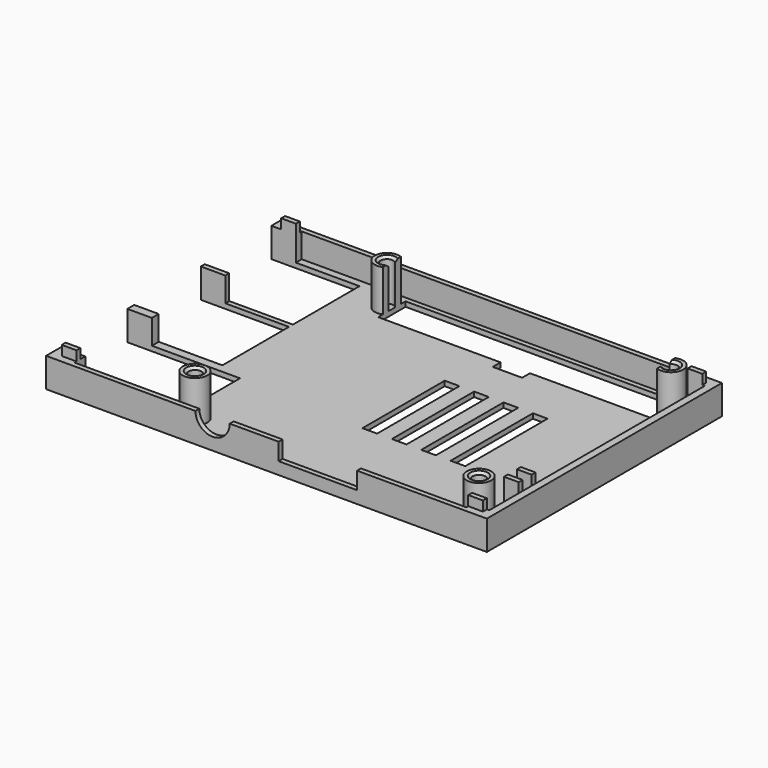
from build123d import *

# Parameters (mm, degrees)
SKETCH_W        = 3
SKETCH_H        = 21
PAD_DEPTH       = 1
SKETCH001_W     = 5
SKETCH001_H     = 1.75
SKETCH001_H_2   = 1
PAD001_DEPTH    = 5
SKETCH002_W     = 3
SKETCH002_H     = 1
PAD002_DEPTH    = 2
SKETCH003_R     = 2.5
SKETCH003_R_2   = 1.3
PAD003_DEPTH    = 8.5
SKETCH004_W     = 16
SKETCH004_H     = 3.5
POCKET_DEPTH    = 1
CHAMFER_SIZE    = 0.5
SKETCH005_W     = 3
SKETCH005_H     = 1
PAD004_DEPTH    = 7
SKETCH006_W     = 56
SKETCH006_H     = 7
POCKET001_DEPTH = 9.501


with BuildPart() as part:
    # Sketch → Pad (new body)
    with BuildSketch(Plane.XY):
        Polygon((-45, 30), (45, 30), (45, -30), (-45, -30), (-45, -26.25), (-22, -26.25), (-22, -9.25), (-45, -9.25), (-45, -7.5), (-27, -7.5), (-27, 9.5), (-45, 9.5), (-45, 10.5), (-27, 10.5), (-27, 27.5), (-45, 27.5), align=None)
        Polygon((36.5, 21), (36.5, 28), (-16.5, 28), (-16.5, 21), (7, 21), (7, 19), (13, 19), (13, 21), align=None, mode=Mode.SUBTRACT)
        with Locations((5.5, 0)):
            Rectangle(SKETCH_W, SKETCH_H, mode=Mode.SUBTRACT)
        with Locations((11.5, 0)):
            Rectangle(SKETCH_W, SKETCH_H, mode=Mode.SUBTRACT)
        with Locations((17.5, 0)):
            Rectangle(SKETCH_W, SKETCH_H, mode=Mode.SUBTRACT)
        with Locations((23.5, 0)):
            Rectangle(SKETCH_W, SKETCH_H, mode=Mode.SUBTRACT)
    extrude(amount=PAD_DEPTH)

    # Sketch001 (on Face42 of Pad) → Pad001 (join)
    with BuildSketch(Plane.XY.offset(1)):
        with Locations((-42.5, -8.375)):
            Rectangle(SKETCH001_W, SKETCH001_H)
        with Locations((-42.5, 10)):
            Rectangle(SKETCH001_W, SKETCH001_H_2)
        Polygon((-45, 30), (45, 30), (45, -30), (-45, -30), (-45, -26.25), (-40, -26.25), (-40, -29), (40, -29), (40, -27.5), (43.5, -27.5), (43.5, 27.5), (40, 27.5), (40, 29), (-40, 29), (-40, 27.5), (-45, 27.5), align=None)
    extrude(amount=PAD001_DEPTH)

    # Sketch002 (on Face56 of Pad001) → Pad002 (join)
    with BuildSketch(Plane.XY.offset(6)):
        with Locations((41.5, 28)):
            Rectangle(SKETCH002_W, SKETCH002_H)
        with Locations((-41.5, 28)):
            Rectangle(SKETCH002_W, SKETCH002_H)
        with Locations((-41.5, -28)):
            Rectangle(SKETCH002_W, SKETCH002_H)
        with Locations((41.5, -28)):
            Rectangle(SKETCH002_W, SKETCH002_H)
    extrude(amount=PAD002_DEPTH)

    # Sketch003 (on Face47 of Pad002) → Pad003 (join)
    with BuildSketch(Plane.XY.offset(1)):
        with Locations((-19, 24.5)):
            Circle(SKETCH003_R)
        with Locations((-19, 24.5)):
            Circle(SKETCH003_R_2, mode=Mode.SUBTRACT)
        with Locations((39, 24.5)):
            Circle(SKETCH003_R)
        with Locations((39, 24.5)):
            Circle(SKETCH003_R_2, mode=Mode.SUBTRACT)
        with Locations((-19, -24.5)):
            Circle(SKETCH003_R)
        with Locations((-19, -24.5)):
            Circle(SKETCH003_R_2, mode=Mode.SUBTRACT)
        with Locations((39, -24.5)):
            Circle(SKETCH003_R)
        with Locations((39, -24.5)):
            Circle(SKETCH003_R_2, mode=Mode.SUBTRACT)
    extrude(amount=PAD003_DEPTH)

    # Sketch004 (on Face45 of Pad003) → Pocket (cut)
    with BuildSketch(Plane.XZ.offset(30)):
        with BuildLine():
            ThreePointArc((-14.5, 6), (-11, 2.5), (-7.5, 6))
            Line((-14.5, 6), (-7.5, 6))
        make_face()
        with Locations((10.5, 4.25)):
            Rectangle(SKETCH004_W, SKETCH004_H)
    extrude(amount=-POCKET_DEPTH, mode=Mode.SUBTRACT)

    # Chamfer
    chamfer_edges = [part.edges().sort_by_distance(p)[0] for p in [
        (-20.3, 24.5, 9.5),
        (37.7, 24.5, 9.5),
        (-20.3, -24.5, 9.5),
        (37.7, -24.5, 9.5),
    ]]
    chamfer(chamfer_edges, length=CHAMFER_SIZE)

    # Sketch005 (on Face5 of Chamfer) → Pad004 (join)
    with BuildSketch(Plane.XY.offset(1)):
        with Locations((42, -16.2)):
            Rectangle(SKETCH005_W, SKETCH005_H)
        with Locations((42, -19.5)):
            Rectangle(SKETCH005_W, SKETCH005_H)
    extrude(amount=PAD004_DEPTH)

    # Sketch006 (on Face63 of Pad004) → Pocket001 (cut, through all)
    with BuildSketch(Plane(origin=(0, 0, 0), x_dir=(1, 0, 0), z_dir=(0, 0, -1))):
        with Locations((10, -24.5)):
            Rectangle(SKETCH006_W, SKETCH006_H)
    extrude(amount=-POCKET001_DEPTH, mode=Mode.SUBTRACT)


solid = part.part
